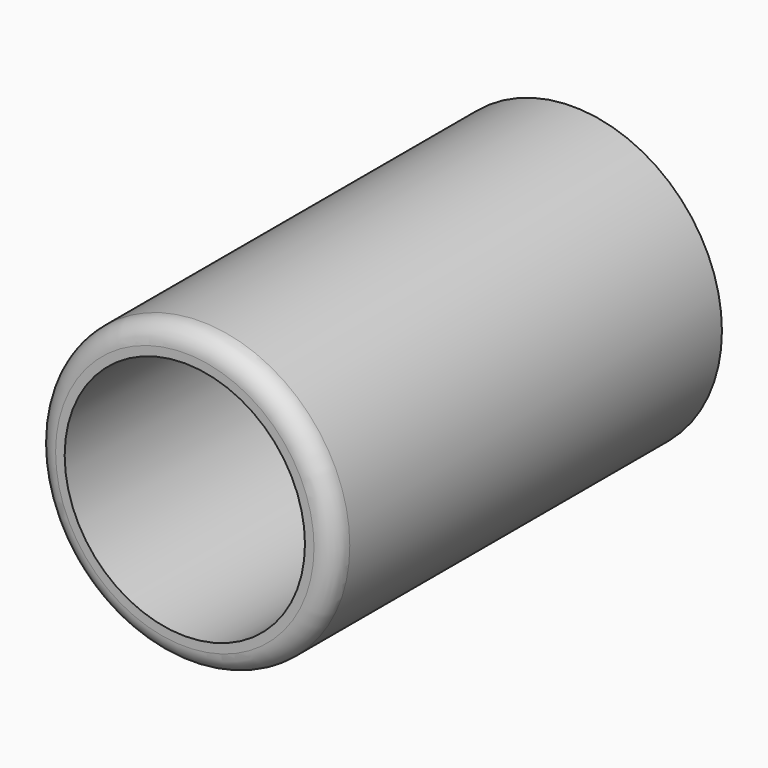
from build123d import *

# Parameters (mm, degrees)
F0_R     = 38.1
F0_R_2   = 30.704041
F1_DEPTH = 123.952
F2_R     = 5.08
F3_R     = 30.737392
F4_DEPTH = 6.35


with BuildPart() as f1:
    # F0 (on Front) → F1 (new body)
    with BuildSketch(Plane.XZ):
        Circle(F0_R)
        Circle(F0_R_2, mode=Mode.SUBTRACT)
    extrude(amount=F1_DEPTH)

    # F2
    f2_edges = [f1.edges().sort_by_distance(p)[0] for p in [
        (-38.1, -123.952, 0),
    ]]
    fillet(f2_edges, radius=F2_R)

    # F3 (on Front) → F4 (join)
    with BuildSketch(Plane.XZ):
        Circle(F3_R)
    extrude(amount=F4_DEPTH)


solid = f1.part
